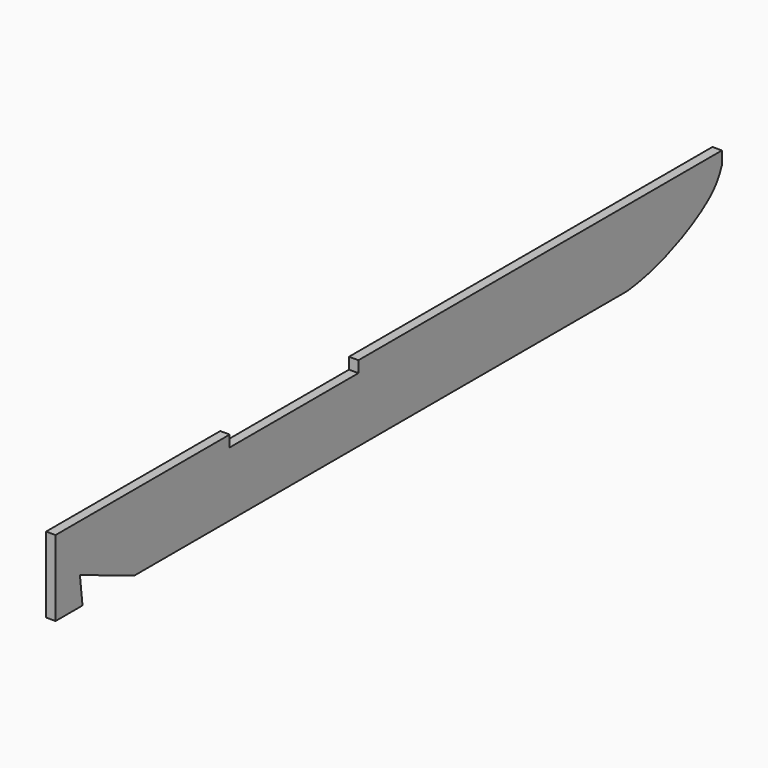
from build123d import *

# Parameters (mm, degrees)
F0_W     = 6.35
F0_H     = 50.8
F1_DEPTH = 558.8
F3_DEPTH = 304.8
F4_W     = 107.95
F4_H     = 7.62
F5_DEPTH = 304.8
F7_DEPTH = 25.4


with BuildPart() as f1:
    # F0 (on Front) → F1 (new body)
    with BuildSketch(Plane.XZ):
        with Locations((-3.175, -25.4)):
            Rectangle(F0_W, F0_H)
    extrude(amount=F1_DEPTH)

    # F2 (on face) → F3 (cut)
    with BuildSketch(Plane.YZ):
        Polygon((-538.3797883987, -31.9133784294), (-536.1839532852, -50.8), (-492.8166270256, -50.8), align=None)
    extrude(amount=-F3_DEPTH, mode=Mode.SUBTRACT)

    # F4 (on face) → F5 (cut)
    with BuildSketch(Plane.YZ):
        with Locations((-358.775, -3.81)):
            Rectangle(F4_W, F4_H)
    extrude(amount=-F5_DEPTH, mode=Mode.SUBTRACT)

    # F6 (on face) → F7 (cut)
    with BuildSketch(Plane.YZ):
        with BuildLine():
            Line((0, -50.8), (0, -8.7046129629))
            add(Edge.make_bspline(
                [(0, -8.7046129629), (-2.2023392611, -14.2512334073), (-9.3405414865, -27.9675195006), (-51.0574173798, -47.8762926406), (-79.2421847582, -50.8)],
                knots=[0, 0, 0, 0, 0.3372731327, 1, 1, 1, 1], degree=3))
            Line((-79.2421847582, -50.8), (0, -50.8))
        make_face()
    extrude(amount=-F7_DEPTH, mode=Mode.SUBTRACT)


solid = f1.part
